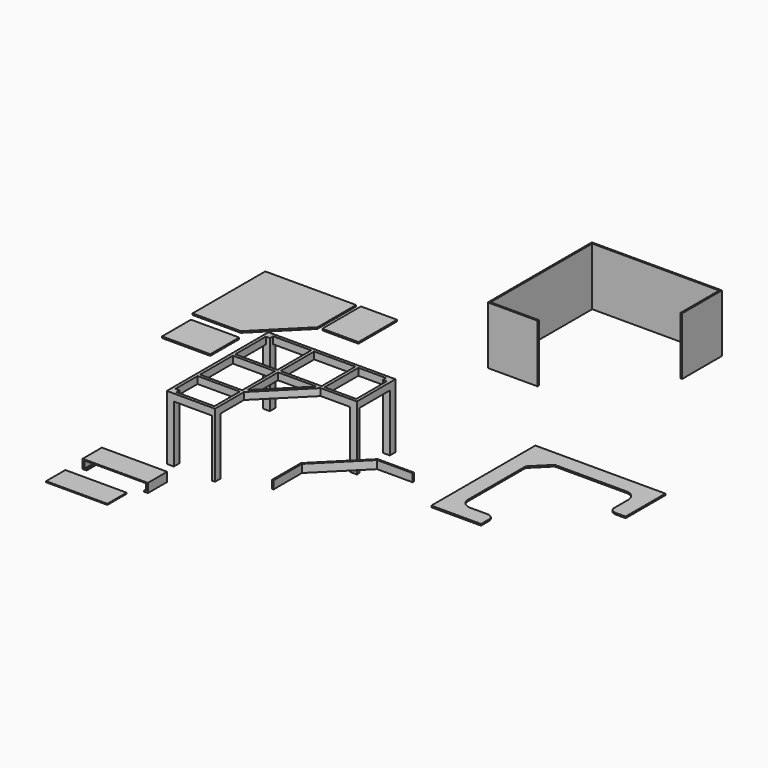
from build123d import *

# Parameters (mm, degrees)
F1_DEPTH  = 19.05
F2_W      = 609.6
F2_H      = 457.2
F3_DEPTH  = 19.05
F2_W_2    = 457.2
F2_H_2    = 609.6
F4_W      = 38.1
F4_H      = 533.4
F4_W_2    = 533.4
F4_H_2    = 38.1
F4_H_3    = 482.6
F4_W_3    = 482.6
F5_DEPTH  = 88.9
F6_DEPTH  = 723.9
F8_DEPTH  = 730.25
F10_DEPTH = 19.05
F12_DEPTH = 101.6
F13_W     = 825.5
F13_H     = 304.8
F14_DEPTH = 12.7
F13_W_2   = 774.7
F15_W     = 25.4
F15_H     = 304.8
F16_DEPTH = 101.6
F17_W     = 304.8
F17_H     = 12.7
F18_DEPTH = 25.4
F19_W     = 304.8
F19_H     = 12.7
F20_DEPTH = 25.4


with BuildPart() as f1:
    # F0 (on Top) → F1 (new body)
    with BuildSketch(Plane.XY):
        Polygon((-51.9721941534, 871.3275224966), (-304.476781776, 871.3275224966), (-1200.3823941534, -24.5780898807), (-1200.3823941534, -277.0826775034), (-590.7823941534, -277.0826775034), (-590.7823941534, 261.7275224966), (-51.9721941534, 261.7275224966), align=None)
        Polygon((-590.7823941534, -277.0826775034), (-51.9721941534, 261.7275224966), (-590.7823941534, 261.7275224966), align=None)
        Polygon((-304.476781776, 871.3275224966), (-1200.3823941534, 871.3275224966), (-1200.3823941534, -24.5780898807), align=None)
    extrude(amount=F1_DEPTH)


with BuildPart() as f3:
    # F2 (on Top) → F3 (new body)
    with BuildSketch(Plane.XY):
        with Locations((-823.3452288248, -620.8709870014)):
            Rectangle(F2_W, F2_H)
    extrude(amount=F3_DEPTH)


with BuildPart() as f3b:
    # F2 (on Top) → F3, piece 2 (new body)
    with BuildSketch(Plane.XY):
        with Locations((232.5300339319, 571.9040786624)):
            Rectangle(F2_W_2, F2_H_2)
    extrude(amount=F3_DEPTH)


with BuildPart() as f5:
    # F4 (on Top) → F5 (new body)
    with BuildSketch(Plane.XY):
        Polygon((-241.3244870595, -318.6231202126), (-279.4244870595, -318.6231202126), (-279.4244870595, -1746.4333202126), (-241.3244870595, -1746.4333202126), (-241.3244870595, -1397.1833202126), (-241.3244870595, -1359.0833202126), (-241.3244870595, -839.3231202126), (-241.3244870595, -801.2231202126), align=None)
        Polygon((-190.5244870595, -229.7231202126), (-279.4244870595, -229.7231202126), (-279.4244870595, -318.6119198799), (-279.4244870595, -318.6231202126), (-241.3244870595, -318.6231202126), (-190.5244870595, -318.6231202126), (-190.5244870595, -267.8231202126), align=None)
        Polygon((1237.2857129405, -229.7231202126), (-190.5244870595, -229.7231202126), (-190.5244870595, -267.8231202126), (292.0755129405, -267.8231202126), (330.1755129405, -267.8231202126), (849.9357129405, -267.8231202126), (888.0357129405, -267.8231202126), (1237.2857129405, -267.8231202126), align=None)
        with Locations((311.1255129405, -534.5231202126)):
            Rectangle(F4_W, F4_H)
        with Locations((25.3755129405, -820.2731202126)):
            Rectangle(F4_W_2, F4_H_2)
        with Locations((311.1255129405, -820.2731202126)):
            Rectangle(F4_W, F4_H_2)
        Polygon((330.1755129405, -839.3231202126), (292.0755129405, -839.3231202126), (292.0755129405, -1359.0833202126), (292.0755129405, -1397.1833202126), (292.0755129405, -1746.4333202126), (330.1755129405, -1746.4333202126), (330.1755129405, -1378.1333202126), (330.1755129405, -1324.2517834861), align=None)
        Polygon((1237.2857129405, -801.2231202126), (888.0357129405, -801.2231202126), (849.9357129405, -801.2231202126), (330.1755129405, -801.2231202126), (330.1755129405, -839.3231202126), (815.104176214, -839.3231202126), (868.9857129405, -839.3231202126), (1237.2857129405, -839.3231202126), align=None)
        with Locations((868.9857129405, -534.5231202126)):
            Rectangle(F4_W, F4_H)
        Polygon((1326.1857129405, -229.7231202126), (1237.2857129405, -229.7231202126), (1237.2857129405, -267.8231202126), (1237.2857129405, -318.6231202126), (1288.0857129405, -318.6231202126), (1326.1857129405, -318.6231202126), (1326.1857129405, -318.6119198799), align=None)
        with Locations((1307.1357129405, -559.9231202126)):
            Rectangle(F4_W, F4_H_3)
        Polygon((1326.1857129405, -839.3231202126), (1326.1857129405, -801.2231202126), (1288.0857129405, -801.2231202126), (1237.2857129405, -801.2231202126), (1237.2857129405, -839.3231202126), align=None)
        with Locations((25.3755129405, -1378.1333202126)):
            Rectangle(F4_W_2, F4_H_2)
        Polygon((-241.3244870595, -1746.4333202126), (-279.4244870595, -1746.4333202126), (-279.4244870595, -1835.3333202126), (-190.5244870595, -1835.3333202126), (-190.5244870595, -1797.2333202126), (-190.5244870595, -1746.4333202126), align=None)
        with Locations((50.7755129405, -1816.2833202126)):
            Rectangle(F4_W_3, F4_H_2)
        Polygon((292.0755129405, -1797.2333202126), (292.0755129405, -1835.3333202126), (330.1755129405, -1835.3333202126), (330.1755129405, -1746.4333202126), (292.0755129405, -1746.4333202126), align=None)
        Polygon((868.9857129405, -839.3231202126), (815.104176214, -839.3231202126), (330.1755129405, -1324.2517834861), (330.1755129405, -1378.1333202126), align=None)
        Polygon((-241.3244870595, -318.6231202126), (-279.4244870595, -318.6231202126), (-279.4244870595, -1746.4333202126), (-241.3244870595, -1746.4333202126), (-241.3244870595, -1397.1833202126), (-241.3244870595, -1359.0833202126), (-241.3244870595, -839.3231202126), (-241.3244870595, -801.2231202126), align=None)
        Polygon((-190.5244870595, -229.7231202126), (-279.4244870595, -229.7231202126), (-279.4244870595, -318.6119198799), (-279.4244870595, -318.6231202126), (-241.3244870595, -318.6231202126), (-190.5244870595, -318.6231202126), (-190.5244870595, -267.8231202126), align=None)
        Polygon((1326.1857129405, -229.7231202126), (1237.2857129405, -229.7231202126), (1237.2857129405, -267.8231202126), (1237.2857129405, -318.6231202126), (1288.0857129405, -318.6231202126), (1326.1857129405, -318.6231202126), (1326.1857129405, -318.6119198799), align=None)
        with Locations((1307.1357129405, -559.9231202126)):
            Rectangle(F4_W, F4_H_3)
    extrude(amount=F5_DEPTH)

    # F4 (on Top) → F6 (join)
    with BuildSketch(Plane.XY):
        Polygon((-241.3244870595, -1746.4333202126), (-279.4244870595, -1746.4333202126), (-279.4244870595, -1835.3333202126), (-190.5244870595, -1835.3333202126), (-190.5244870595, -1797.2333202126), (-190.5244870595, -1746.4333202126), align=None)
        Polygon((292.0755129405, -1797.2333202126), (292.0755129405, -1835.3333202126), (330.1755129405, -1835.3333202126), (330.1755129405, -1746.4333202126), (292.0755129405, -1746.4333202126), align=None)
        Polygon((-190.5244870595, -229.7231202126), (-279.4244870595, -229.7231202126), (-279.4244870595, -318.6119198799), (-279.4244870595, -318.6231202126), (-241.3244870595, -318.6231202126), (-190.5244870595, -318.6231202126), (-190.5244870595, -267.8231202126), align=None)
        Polygon((1326.1857129405, -229.7231202126), (1237.2857129405, -229.7231202126), (1237.2857129405, -267.8231202126), (1237.2857129405, -318.6231202126), (1288.0857129405, -318.6231202126), (1326.1857129405, -318.6231202126), (1326.1857129405, -318.6119198799), align=None)
        Polygon((1326.1857129405, -839.3231202126), (1326.1857129405, -801.2231202126), (1288.0857129405, -801.2231202126), (1237.2857129405, -801.2231202126), (1237.2857129405, -839.3231202126), align=None)
        Polygon((1326.1857129405, -229.7231202126), (1237.2857129405, -229.7231202126), (1237.2857129405, -267.8231202126), (1237.2857129405, -318.6231202126), (1288.0857129405, -318.6231202126), (1326.1857129405, -318.6231202126), (1326.1857129405, -318.6119198799), align=None)
        Polygon((-190.5244870595, -229.7231202126), (-279.4244870595, -229.7231202126), (-279.4244870595, -318.6119198799), (-279.4244870595, -318.6231202126), (-241.3244870595, -318.6231202126), (-190.5244870595, -318.6231202126), (-190.5244870595, -267.8231202126), align=None)
    extrude(amount=-F6_DEPTH)


with BuildPart() as f8:
    # F7 (on Top) → F8 (new body)
    with BuildSketch(Plane.XY):
        Polygon((1782.3060198848, 2303.2046501876), (1782.3060198848, 659.4944501876), (2410.9560198848, 659.4944501876), (2410.9560198848, 678.5444501876), (1801.3560198848, 678.5444501876), (1801.3560198848, 2284.1546501876), (3406.9662198848, 2284.1546501876), (3406.9662198848, 1674.5546501876), (3426.0162198848, 1674.5546501876), (3426.0162198848, 2303.2046501876), align=None)
    extrude(amount=F8_DEPTH)


with BuildPart() as f10:
    # F9 (on Top) → F10 (new body)
    with BuildSketch(Plane.XY):
        with BuildLine():
            Line((4849.9282895447, -369.7538028717), (3206.2180895447, -369.7538028717))
            Line((3206.2180895447, -369.7538028717), (3206.2180895447, -2013.4640028717))
            Line((3206.2180895447, -2013.4640028717), (3409.4180895447, -2013.4640028717))
            Line((3409.4180895447, -2013.4640028717), (3834.8680895447, -2013.4640028717))
            Line((3834.8680895447, -2013.4640028717), (3834.8680895447, -1886.4640028717))
            ThreePointArc((3834.8680895447, -1886.4640028717), (3812.5496262711, -1832.5824661453), (3758.6680895447, -1810.2640028717))
            Line((3758.6680895447, -1810.2640028717), (3536.4180895447, -1810.2640028717))
            ThreePointArc((3536.4180895447, -1810.2640028717), (3446.615528334, -1773.0665640824), (3409.4180895447, -1683.2640028717))
            Line((3409.4180895447, -1683.2640028717), (3409.4180895447, -776.1538028717))
            Line((3409.4180895447, -776.1538028717), (3409.4180895447, -572.9538028717))
            Line((3409.4180895447, -572.9538028717), (3612.6180895447, -572.9538028717))
            Line((3612.6180895447, -572.9538028717), (4519.7282895447, -572.9538028717))
            ThreePointArc((4519.7282895447, -572.9538028717), (4609.5308507554, -610.151241661), (4646.7282895447, -699.9538028717))
            Line((4646.7282895447, -699.9538028717), (4646.7282895447, -922.2038028717))
            ThreePointArc((4646.7282895447, -922.2038028717), (4669.0467528183, -976.0853395981), (4722.9282895447, -998.4038028717))
            Line((4722.9282895447, -998.4038028717), (4849.9282895447, -998.4038028717))
            Line((4849.9282895447, -998.4038028717), (4849.9282895447, -572.9538028717))
            Line((4849.9282895447, -572.9538028717), (4849.9282895447, -369.7538028717))
        make_face()
        Polygon((3409.4180895447, -776.1538028717), (3612.6180895447, -572.9538028717), (3409.4180895447, -572.9538028717), align=None)
    extrude(amount=F10_DEPTH)


with BuildPart() as f12:
    # F11 (on Top) → F12 (new body)
    with BuildSketch(Plane.XY):
        Polygon((1733.1636556043, -2258.0527052501), (1752.2136556043, -2239.0027052501), (1752.2136556043, -2212.0619368869), (1733.1636556043, -2231.1119368869), align=None)
        Polygon((1733.1636556043, -2688.3119368869), (1752.2136556043, -2688.3119368869), (1752.2136556043, -2239.0027052501), (1733.1636556043, -2258.0527052501), align=None)
        Polygon((1752.2136556043, -2212.0619368869), (1752.2136556043, -2239.0027052501), (2279.8646239675, -1711.3517368869), (2252.9238556043, -1711.3517368869), align=None)
        Polygon((2252.9238556043, -1711.3517368869), (2279.8646239675, -1711.3517368869), (2298.9146239675, -1692.3017368869), (2271.9738556043, -1692.3017368869), align=None)
        Polygon((2279.8646239675, -1711.3517368869), (2729.1738556043, -1711.3517368869), (2729.1738556043, -1692.3017368869), (2298.9146239675, -1692.3017368869), align=None)
    extrude(amount=F12_DEPTH)


with BuildPart() as f14:
    # F13 (on Top) → F14 (new body)
    with BuildSketch(Plane.XY):
        with Locations((298.4524759054, -3219.6393180847)):
            Rectangle(F13_W, F13_H)
    extrude(amount=F14_DEPTH)

    # F15 (on face) → F16 (join)
    with BuildSketch(Plane(origin=(0, 0, 0), x_dir=(1, 0, 0), z_dir=(0, 0, -1))):
        with Locations((-101.5975240946, 3219.6393180847)):
            Rectangle(F15_W, F15_H)
        with Locations((698.5024759054, 3219.6393180847)):
            Rectangle(F15_W, F15_H)
    extrude(amount=F16_DEPTH)

    # F17 (on face) → F18 (join)
    with BuildSketch(Plane.YZ.offset(-88.8975240946)):
        with Locations((-3219.6393180847, -95.25)):
            Rectangle(F17_W, F17_H)
    extrude(amount=F18_DEPTH)

    # F19 (on face) → F20 (join)
    with BuildSketch(Plane(origin=(685.8024759054, 0, 0), x_dir=(0, -1, 0), z_dir=(-1, 0, 0))):
        with Locations((3219.6393180847, -95.25)):
            Rectangle(F19_W, F19_H)
    extrude(amount=F20_DEPTH)


with BuildPart() as f14b:
    # F13 (on Top) → F14, piece 2 (new body)
    with BuildSketch(Plane.XY):
        with Locations((291.0097837448, -3818.8405711409)):
            Rectangle(F13_W_2, F13_H)
    extrude(amount=F14_DEPTH)


solid = Compound([f1.part, f3.part, f3b.part, f5.part, f8.part, f10.part, f12.part, f14.part, f14b.part])
